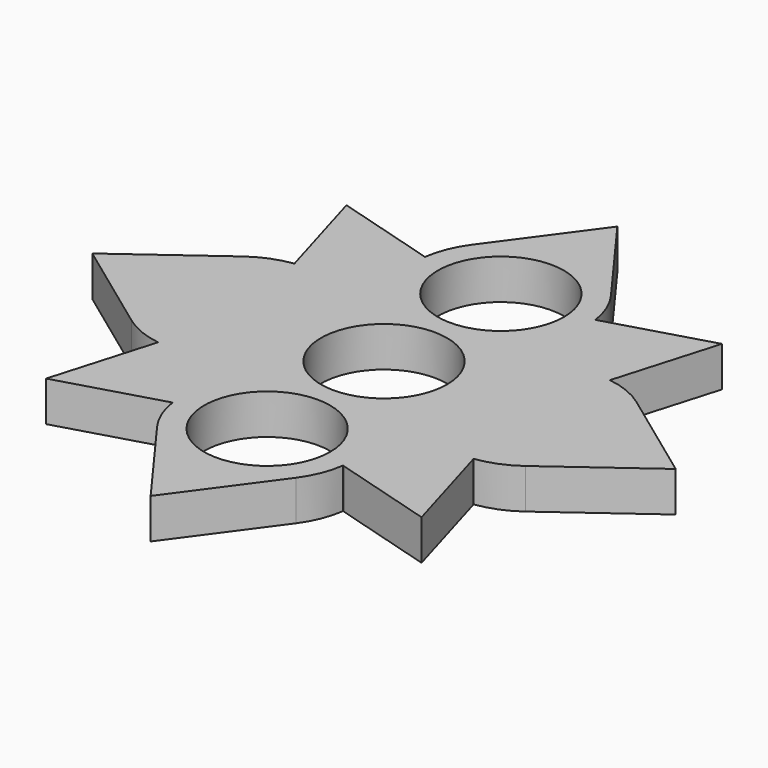
from build123d import *

# Parameters (mm, degrees)
F1_R     = 10.99185
F2_DEPTH = 7


with BuildPart() as f2:
    # F1 (on Top) → F2 (new body)
    with BuildSketch(Plane.XY):
        with BuildLine():
            ThreePointArc((15.211929, 27.617428), (15.036835, 27.564462), (14.862738, 27.508301))
            ThreePointArc((14.862738, 27.508301), (13.910051, 31.09712), (12.105003, 34.341968))
            Line((12.105003, 34.341968), (0, 50.8837))
            Line((0, 50.8837), (-12.105003, 34.341968))
            ThreePointArc((-12.105003, 34.341968), (-13.910051, 31.09712), (-14.862738, 27.508301))
            ThreePointArc((-14.862738, 27.508301), (-15.036835, 27.564462), (-15.211929, 27.617428))
            Line((-15.211929, 27.617428), (-32.747317, 32.747317))
            Line((-32.747317, 32.747317), (-27.617428, 15.211929))
            ThreePointArc((-27.617428, 15.211929), (-27.564462, 15.036835), (-27.508301, 14.862738))
            ThreePointArc((-27.508301, 14.862738), (-31.09712, 13.910051), (-34.341968, 12.105003))
            Line((-34.341968, 12.105003), (-50.8837, 0))
            Line((-50.8837, 0), (-34.341968, -12.105003))
            ThreePointArc((-34.341968, -12.105003), (-31.09712, -13.910051), (-27.508301, -14.862738))
            ThreePointArc((-27.508301, -14.862738), (-27.564462, -15.036835), (-27.617428, -15.211929))
            Line((-27.617428, -15.211929), (-32.747317, -32.747317))
            Line((-32.747317, -32.747317), (-15.211929, -27.617428))
            ThreePointArc((-15.211929, -27.617428), (-15.036835, -27.564462), (-14.862738, -27.508301))
            ThreePointArc((-14.862738, -27.508301), (-13.910051, -31.09712), (-12.105003, -34.341968))
            Line((-12.105003, -34.341968), (0, -50.8837))
            Line((0, -50.8837), (12.105003, -34.341968))
            ThreePointArc((12.105003, -34.341968), (13.910051, -31.09712), (14.862738, -27.508301))
            ThreePointArc((14.862738, -27.508301), (15.036835, -27.564462), (15.211929, -27.617428))
            Line((15.211929, -27.617428), (32.747317, -32.747317))
            Line((32.747317, -32.747317), (27.617428, -15.211929))
            ThreePointArc((27.617428, -15.211929), (27.564462, -15.036835), (27.508301, -14.862738))
            ThreePointArc((27.508301, -14.862738), (31.09712, -13.910051), (34.341968, -12.105003))
            Line((34.341968, -12.105003), (50.8837, 0))
            Line((50.8837, 0), (34.341968, 12.105003))
            ThreePointArc((34.341968, 12.105003), (31.09712, 13.910051), (27.508301, 14.862738))
            ThreePointArc((27.508301, 14.862738), (27.564462, 15.036835), (27.617428, 15.211929))
            Line((27.617428, 15.211929), (32.747317, 32.747317))
            Line((32.747317, 32.747317), (15.211929, 27.617428))
        make_face()
        with Locations((0, -25.4837)):
            Circle(F1_R, mode=Mode.SUBTRACT)
        Circle(F1_R, mode=Mode.SUBTRACT)
        with Locations((0, 25.4837)):
            Circle(F1_R, mode=Mode.SUBTRACT)
    extrude(amount=F2_DEPTH)


solid = f2.part
